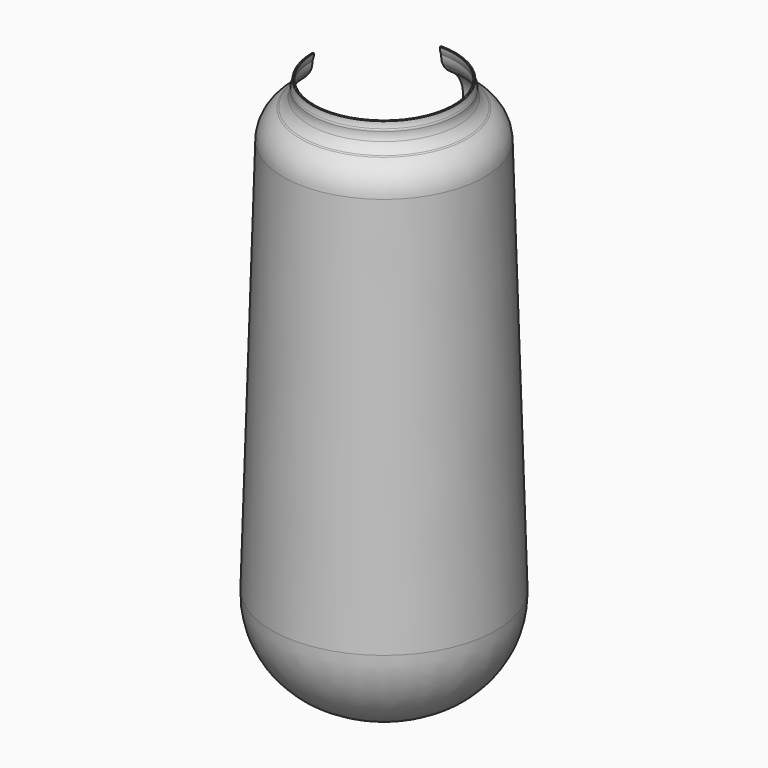
from build123d import *

# Parameters (mm, degrees)
F2_W     = 56.873322
F2_H     = 216.114152
F3_DEPTH = 58.238477


with BuildPart() as f1:
    # F0 (on Right) → F1 (revolve)
    with BuildSketch(Plane.YZ):
        with BuildLine():
            Line((-32.792136, 128.862843), (-36.590981, -0.143324))
            ThreePointArc((-36.590981, -0.143324), (-28.436845, -21.601239), (-7.5, -31.012967))
            ThreePointArc((-7.5, -31.012967), (-3.794939, -30.09838), (0, -29.695416))
            Line((0, -29.695416), (0, -29.452069))
            ThreePointArc((0, -29.452069), (-3.784372, -29.687502), (-7.485066, -30.51319))
            ThreePointArc((-7.485066, -30.51319), (-28.072963, -21.258324), (-36.091198, -0.158041))
            Line((-36.091198, -0.158041), (-32.292353, 128.848126))
            ThreePointArc((-32.292353, 128.848126), (-30.80293, 133.934638), (-27.016835, 137.64361))
            ThreePointArc((-27.016835, 137.64361), (-26.774217, 137.790861), (-26.539517, 137.950431))
            ThreePointArc((-26.539517, 137.950431), (-25.093616, 139.267941), (-23.989586, 140.882743))
            ThreePointArc((-23.989586, 140.882743), (-23.470074, 142.339477), (-23.376667, 143.883252))
            ThreePointArc((-23.376667, 143.883252), (-22.951827, 145.095666), (-22.810119, 146.372519))
            Line((-22.810119, 146.372519), (-23.310117, 146.371157))
            ThreePointArc((-23.310117, 146.371157), (-23.404957, 145.369883), (-23.691358, 144.405768))
            ThreePointArc((-23.691358, 144.405768), (-23.832133, 144.078405), (-23.86684, 143.723751))
            ThreePointArc((-23.86684, 143.723751), (-23.972267, 142.381072), (-24.432241, 141.115243))
            ThreePointArc((-24.432241, 141.115243), (-25.470912, 139.596038), (-26.831216, 138.356524))
            ThreePointArc((-26.831216, 138.356524), (-27.04458, 138.21146), (-27.265142, 138.077596))
            ThreePointArc((-27.265142, 138.077596), (-31.231715, 134.191822), (-32.792136, 128.862843))
        make_face()
    revolve(axis=Axis((0, 0, 66.14905), (0, 0, 1)))

    # F2 (on Right) → F3 (cut)
    with BuildSketch(Plane.YZ):
        with Locations((28.436661, 58.634361)):
            Rectangle(F2_W, F2_H)
    extrude(amount=-F3_DEPTH, mode=Mode.SUBTRACT)


solid = f1.part
